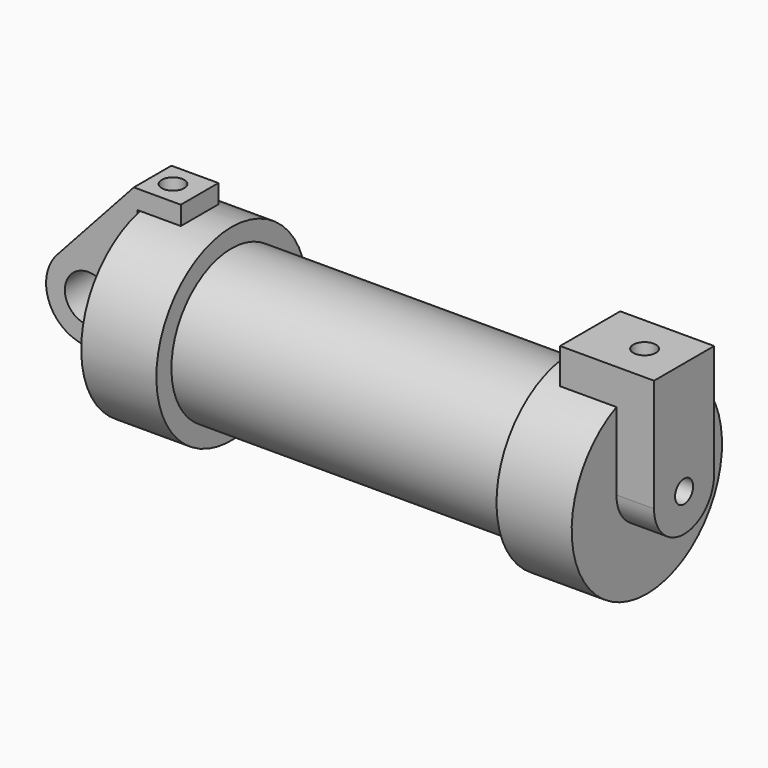
from build123d import *

# Parameters (mm, degrees)
F0_R          = 3.175
F1_DEPTH      = 3.175
F1_DEPTH_BACK = 3.175
F0_W          = 5.842
F0_H          = 12.7
F3_R          = 1.524
F4_DEPTH      = 7.62
F4_DEPTH_BACK = 5.08
F6_R          = 1.524
F7_DEPTH      = 17.78
F5_R          = 1.524
F8_DEPTH      = 10.414


with BuildPart() as f1:
    # F0 (on Front) → F1 (new body, two sides)
    with BuildSketch(Plane.XZ) as f1_sk:
        with BuildLine():
            Line((-0.9398, 0), (0, 0))
            Line((0, 0), (0, 12.7))
            Line((0, 12.7), (5.842, 12.7))
            Line((5.842, 12.7), (5.842, 15.24))
            Line((5.842, 15.24), (-0.508, 15.24))
            Line((-0.508, 15.24), (-10.8806298187, 3.8475430269))
            ThreePointArc((-10.8806298187, 3.8475430269), (-4.5919612295, 5.3297205562), (-0.9398, 0))
        make_face()
        with BuildLine():
            ThreePointArc((-8.1826630726, -5.5069827884), (-3.1957909266, -4.5493385486), (-0.9398, 0))
            ThreePointArc((-0.9398, 0), (-4.5919612295, 5.3297205562), (-10.8806298187, 3.8475430269))
            ThreePointArc((-10.8806298187, 3.8475430269), (-12.1459778134, -1.5837270034), (-8.1826630726, -5.5069827884))
        make_face()
        with Locations((-6.6548, 0)):
            Circle(F0_R, mode=Mode.SUBTRACT)
        with BuildLine():
            Line((5.842, 0), (0, 0))
            Line((0, 0), (-0.9398, 0))
            ThreePointArc((-0.9398, 0), (-3.1957909266, -4.5493385486), (-8.1826630726, -5.5069827884))
            Line((-8.1826630726, -5.5069827884), (5.842, -9.398))
            Line((5.842, -9.398), (5.842, 0))
        make_face()
    extrude(amount=-F1_DEPTH)
    extrude(f1_sk.sketch, amount=F1_DEPTH_BACK)


with BuildPart() as f2:
    # F0 (on Front) → F2 (revolve)
    with BuildSketch(Plane.XZ):
        with Locations((2.921, 6.35)):
            Rectangle(F0_W, F0_H)
        Polygon((5.842, 12.7), (5.842, 0), (66.294, 0), (66.294, 12.7), (56.134, 12.7), (56.134, 10.16), (10.16, 10.16), (10.16, 12.7), align=None)
    revolve(axis=Axis((33.147, 0, 0), (-1, 0, 0)))

    # F3 (on face) → F4 (join, two sides)
    with BuildSketch(Plane.YZ.offset(66.294)) as f4_sk:
        with BuildLine():
            ThreePointArc((-5.1327645607, 1.1644711485), (-0.0527645607, -3.9155288515), (5.0272354393, 1.1644711485))
            ThreePointArc((5.0272354393, 1.1644711485), (-0.0527645607, 6.2444711485), (-5.1327645607, 1.1644711485))
        make_face()
        with Locations((-0.0527645607, 1.1644711485)):
            Circle(F3_R, mode=Mode.SUBTRACT)
        with BuildLine():
            ThreePointArc((-5.1327645607, 11.6165712654), (-0.0575709682, 12.6998695105), (5.0272354393, 11.6626285132))
            Line((5.0272354393, 11.6626285132), (5.0272354393, 16.4044711485))
            Line((5.0272354393, 16.4044711485), (-5.1327645607, 16.4044711485))
            Line((-5.1327645607, 16.4044711485), (-5.1327645607, 11.6165712654))
        make_face()
        with BuildLine():
            ThreePointArc((-5.1327645607, 1.1644711485), (-0.0527645607, 6.2444711485), (5.0272354393, 1.1644711485))
            Line((5.0272354393, 1.1644711485), (5.0272354393, 11.6626285132))
            ThreePointArc((5.0272354393, 11.6626285132), (-0.0575709682, 12.6998695105), (-5.1327645607, 11.6165712654))
            Line((-5.1327645607, 11.6165712654), (-5.1327645607, 1.1644711485))
        make_face()
    extrude(amount=-F4_DEPTH)
    extrude(f4_sk.sketch, amount=F4_DEPTH_BACK)


with BuildPart() as f7_tool:
    # F6 (on face) → F7 (new body)
    with BuildSketch(Plane.XY.offset(15.24)):
        with Locations((2.2364268079, 0)):
            Circle(F6_R)
    extrude(amount=-F7_DEPTH)


with BuildPart() as f1_1:
    add(f1.part)

    # F7: cut by f7_tool
    add(f7_tool.part, mode=Mode.SUBTRACT)


with BuildPart() as f2_1:
    add(f2.part)

    # F7: cut by f7_tool
    add(f7_tool.part, mode=Mode.SUBTRACT)

    # F5 (on face) → F8 (cut)
    with BuildSketch(Plane.XY.offset(16.4044711485)):
        with Locations((66.0315677524, -0.0527645607)):
            Circle(F5_R)
    extrude(amount=-F8_DEPTH, mode=Mode.SUBTRACT)


solid = Compound([f1_1.part, f2_1.part])
